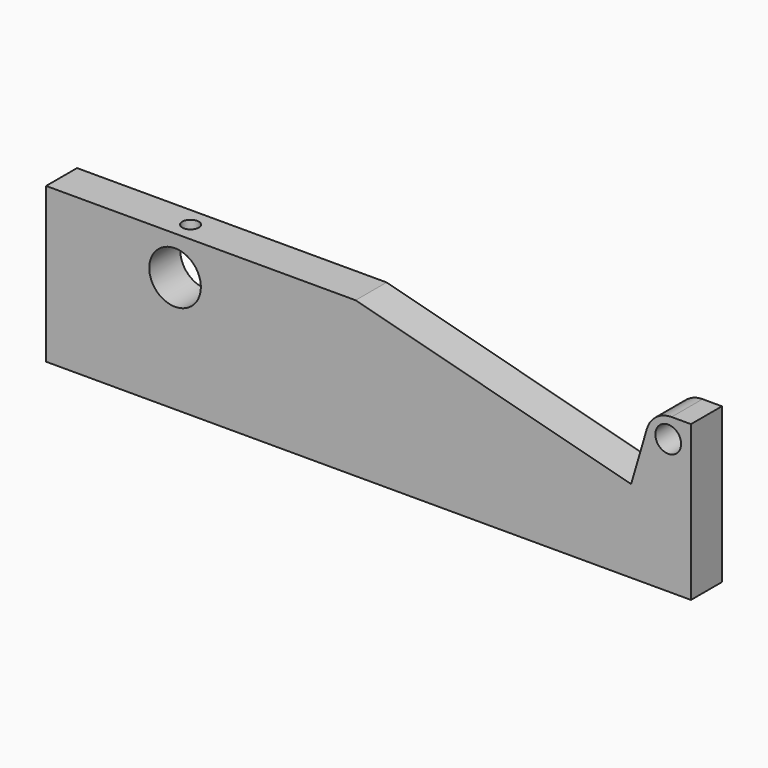
from build123d import *

# Parameters (mm, degrees)
F0_R     = 6.35
F0_R_2   = 3.175
F1_DEPTH = 9.525
F3_D     = 4.0386
F3_DEPTH = 22.70125
F3_TIP   = 1.213317848
F5_D     = 4.0386
F5_DEPTH = 11.90625
F5_TIP   = 1.213317848
F7_D     = 4.0386
F7_DEPTH = 22.7076
F7_TIP   = 1.213317848


with BuildPart() as f1:
    # F0 (on Front) → F1 (new body)
    with BuildSketch(Plane.XZ):
        with BuildLine():
            Line((-3.175, 19.05), (-79.375, 19.05))
            Line((-79.375, 19.05), (-79.375, -19.05))
            Line((-79.375, -19.05), (79.375, -19.05))
            Line((79.375, -19.05), (79.375, 19.05))
            Line((79.375, 19.05), (74.6070611226, 19.05))
            ThreePointArc((74.6070611226, 19.05), (70.7998475457, 17.7820886237), (68.513014884, 14.4846849699))
            Line((68.513014884, 14.4846849699), (64.643, 1.27))
            Line((64.643, 1.27), (-3.175, 19.05))
        make_face()
        with Locations((-47.625, 9.525)):
            Circle(F0_R, mode=Mode.SUBTRACT)
        with Locations((73.7743, 13.97)):
            Circle(F0_R_2, mode=Mode.SUBTRACT)
    extrude(amount=F1_DEPTH)

    # F3
    with Locations(Plane(origin=(-79.375, 0, 0), x_dir=(0, -1, 0), z_dir=(-1, 0, 0))):
        with Locations((4.7625112989, 14.2875), (4.7751887011, -14.2875)):
            Hole(F3_D / 2, depth=F3_DEPTH)
            with Locations((0, 0, -(F3_DEPTH + F3_TIP / 2))):  # 118° drill point
                Cone(0, F3_D / 2, F3_TIP, mode=Mode.SUBTRACT)

    # F5
    with Locations(Plane.XY.offset(19.05)):
        with Locations((-47.625, -4.7498)):
            Hole(F5_D / 2, depth=F5_DEPTH)
            with Locations((0, 0, -(F5_DEPTH + F5_TIP / 2))):  # 118° drill point
                Cone(0, F5_D / 2, F5_TIP, mode=Mode.SUBTRACT)

    # F7
    with Locations(Plane(origin=(0, 0, -19.05), x_dir=(1, 0, 0), z_dir=(0, 0, -1))):
        with Locations((-38.1, 4.7625), (-4.7625, 4.7752), (28.575, 4.7752)):
            Hole(F7_D / 2, depth=F7_DEPTH)
            with Locations((0, 0, -(F7_DEPTH + F7_TIP / 2))):  # 118° drill point
                Cone(0, F7_D / 2, F7_TIP, mode=Mode.SUBTRACT)


solid = f1.part
